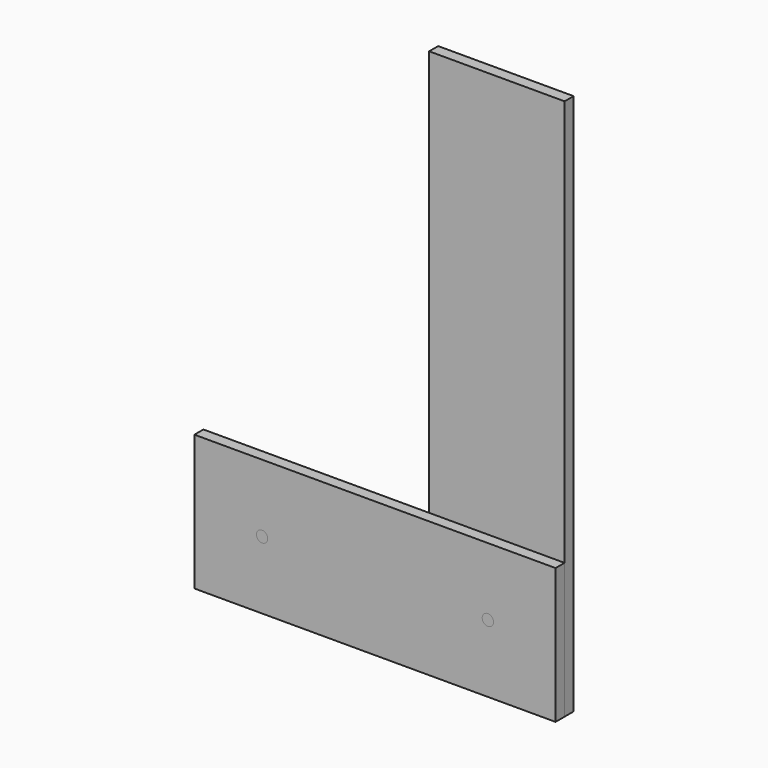
from build123d import *

# Parameters (mm, degrees)
F0_W     = 63.5
F0_H     = 38.1
F0_R     = 1.5875
F0_W_2   = 38.1
F1_DEPTH = 3.175
F0_H_2   = 114.3
F2_DEPTH = 3.175
F3_DEPTH = 3.175


with BuildPart() as f1:
    # F0 (on Front) → F1 (new body)
    with BuildSketch(Plane.XZ):
        with Locations((-19.05, 0)):
            Rectangle(F0_W, F0_H)
        with Locations((-31.75, 0)):
            Circle(F0_R, mode=Mode.SUBTRACT)
        with Locations((31.75, 0)):
            Rectangle(F0_W_2, F0_H)
        with Locations((31.75, 0)):
            Circle(F0_R, mode=Mode.SUBTRACT)
    extrude(amount=F1_DEPTH)


with BuildPart() as f2:
    # F0 (on Front) → F2 (new body)
    with BuildSketch(Plane.XZ):
        with Locations((31.75, 76.2)):
            Rectangle(F0_W_2, F0_H_2)
        with Locations((31.75, 0)):
            Rectangle(F0_W_2, F0_H)
        with Locations((31.75, 0)):
            Circle(F0_R, mode=Mode.SUBTRACT)
    extrude(amount=-F2_DEPTH)


with BuildPart() as f3:
    # F0 (on Front) → F3 (new body, symmetric)
    with BuildSketch(Plane.XZ):
        with Locations((31.75, 0)):
            Circle(F0_R)
        with Locations((-31.75, 0)):
            Circle(F0_R)
    extrude(amount=F3_DEPTH, both=True)


solid = Compound([f1.part, f2.part, f3.part])
